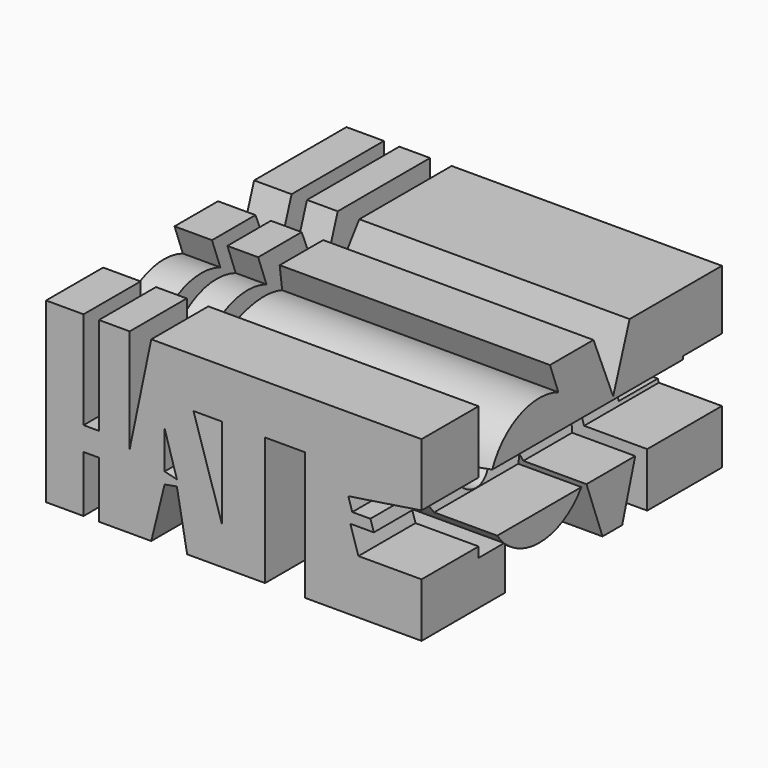
from build123d import *

# Parameters (mm, degrees)
F0_W     = 70.3977793455
F0_H     = 70.3977793455
F1_DEPTH = 33.3
F2_R     = 4.2220188369
F3_DEPTH = 88.7
F4_W     = 3.0769193545
F4_H     = 9.2615361691
F5_DEPTH = 88


with BuildPart() as f1:
    # F0 (on Top) → F1 (new body)
    with BuildSketch(Plane.XY):
        Rectangle(F0_W, F0_H)
    extrude(amount=F1_DEPTH)

    # F2 (on face) → F3 (intersect)
    with BuildSketch(Plane.YZ.offset(35.1988896728)):
        with BuildLine():
            Line((-21.8269247562, 33.3), (-35.1988896728, 33.3))
            Line((-35.1988896728, 33.3), (-35.1988896728, 0))
            Line((-35.1988896728, 0), (-15.6730785966, 0))
            Line((-15.6730785966, 0), (-15.6730785966, 8.1062370281))
            ThreePointArc((-15.6730785966, 8.1062370281), (-15.7606843617, 8.1872987182), (-15.8474766187, 8.2692308351))
            Line((-15.8474766187, 8.2692308351), (-21.8269247562, 8.2692308351))
            Line((-21.8269247562, 8.2692308351), (-21.8269247562, 33.3))
        make_face()
        with BuildLine():
            Line((-15.6730785966, 8.2692308351), (-15.6730785966, 8.1062370281))
            ThreePointArc((-15.6730785966, 8.1062370281), (-5.5268429625, 5.1463493851), (3.0026114018, 11.3877787606))
            Line((3.0026114018, 11.3877787606), (-3.1449753442, 28.020841876))
            ThreePointArc((-3.1449753442, 28.020841876), (-17.6530829342, 23.3908102635), (-15.8474766187, 8.2692308351))
            Line((-15.8474766187, 8.2692308351), (-15.6730785966, 8.2692308351))
        make_face()
        with Locations((-7.5961546972, 14.423077926)):
            Circle(F2_R, mode=Mode.SUBTRACT)
        with BuildLine():
            Line((5.0961538218, 33.3), (-5.0961542875, 33.3))
            Line((-5.0961542875, 33.3), (-3.1449753442, 28.020841876))
            ThreePointArc((-3.1449753442, 28.020841876), (2.3083084764, 23.6219566495), (4.3609927008, 16.9230774045))
            ThreePointArc((4.3609927008, 16.9230774045), (4.016432921, 14.0733085178), (3.0026114018, 11.3877787606))
            Line((3.0026114018, 11.3877787606), (7.211538963, 0))
            Line((7.211538963, 0), (11.8269221857, 0))
            Line((11.8269221857, 0), (17.6923088729, 19.5317326479))
            Line((17.6923088729, 19.5317326479), (17.6923088729, 33.3))
            Line((17.6923088729, 33.3), (13.5576929897, 33.3))
            Line((13.5576929897, 33.3), (9.7115393728, 22.1153870225))
            Line((9.7115393728, 22.1153870225), (5.0961538218, 33.3))
        make_face()
        Polygon((17.6923088729, 33.3), (17.6923088729, 19.5317326479), (21.8269247562, 33.3), align=None)
        Polygon((21.8269247562, 33.3), (17.6923088729, 19.5317326479), (17.6923088729, 0), (35.1988896728, 0), (35.1988896728, 10.7692321762), (26.0576922446, 10.7692321762), (26.0576922446, 15.5769241974), (29.1346181184, 15.5769241974), (29.1346181184, 18.846154213), (26.0576922446, 18.846154213), (26.0576922446, 22.1153870225), (35.1988896728, 22.1153870225), (35.1988896728, 33.3), align=None)
        with BuildLine():
            ThreePointArc((4.3609927008, 16.9230774045), (2.3083084764, 23.6219566495), (-3.1449753442, 28.020841876))
            Line((-3.1449753442, 28.020841876), (3.0026114018, 11.3877787606))
            ThreePointArc((3.0026114018, 11.3877787606), (4.016432921, 14.0733085178), (4.3609927008, 16.9230774045))
        make_face()
        with BuildLine():
            ThreePointArc((-15.8474766187, 8.2692308351), (-15.7606843617, 8.1872987182), (-15.6730785966, 8.1062370281))
            Line((-15.6730785966, 8.1062370281), (-15.6730785966, 8.2692308351))
            Line((-15.6730785966, 8.2692308351), (-15.8474766187, 8.2692308351))
        make_face()
    extrude(amount=-F3_DEPTH, mode=Mode.INTERSECT)

    # F4 (on face) → F5 (intersect)
    with BuildSketch(Plane.XZ.offset(35.1988896728)):
        Polygon((-28.1730778515, 33.3), (-35.1988896728, 33.3), (-35.1988896728, 0), (-28.1730778515, 0), (-28.1730778515, 10.5769243091), (-25.2884626389, 10.5769243091), (-25.2884626389, 0), (-22.4038474262, 0), (-19.5192322135, 13.8749996267), (-19.5192322135, 33.3), (-25.2884626389, 33.3), (-25.2884626389, 15.000000596), (-28.1730778515, 15.000000596), align=None)
        Polygon((-19.5192322135, 13.8749996267), (-22.4038474262, 0), (-19.5192322135, 0), align=None)
        Polygon((-15.4807707295, 33.3), (-19.5192322135, 13.8749996267), (-19.5192322135, 0), (-15.4807707295, 0), (-12.9746164645, 10.158462398), (-10.673077777, 10.5769243091), (-8.7499991059, 0), (-2.2115383763, 0), (-2.2115383763, 7.0266047784), (-7.5658140661, 24.0384638309), (-10.673077777, 24.0384638309), (-10.4807699099, 33.3), align=None)
        Polygon((-10.673077777, 11.7398897019), (-12.9746164645, 12.3076932505), (-12.9746164645, 19.423076883), align=None, mode=Mode.SUBTRACT)
        Polygon((0, 0), (-2.2115383763, 7.0266047784), (-2.2115383763, 0), align=None)
        Polygon((13.3653869852, 33.3), (-10.4807699099, 33.3), (-7.5658140661, 24.0384638309), (-2.2115383763, 24.0384638309), (-2.2115383763, 7.0266047784), (0, 0), (5.8653857559, 0), (5.8653857559, 24.0384638309), (13.3653869852, 24.0384638309), align=None)
        Polygon((-7.5658140661, 24.0384638309), (-10.4807699099, 33.3), (-10.673077777, 24.0384638309), align=None)
        with Locations((14.9038466625, 28.6692319155)):
            Rectangle(F4_W, F4_H)
        Polygon((35.1988896728, 33.3), (16.4423063397, 33.3), (16.4423063397, 24.0384638309), (13.3653869852, 24.0384638309), (13.3653869852, 0), (35.1988896728, 0), (35.1988896728, 10.158462398), (23.3653839678, 10.158462398), (21.8415687166, 15.000000596), (26.2499991804, 15.000000596), (25.6064784077, 17.0446253627), (22.2115386277, 17.0446253627), (21.4629499453, 19.423076883), (35.1988896728, 21.5384643525), align=None)
    extrude(amount=-F5_DEPTH, mode=Mode.INTERSECT)


solid = f1.part
